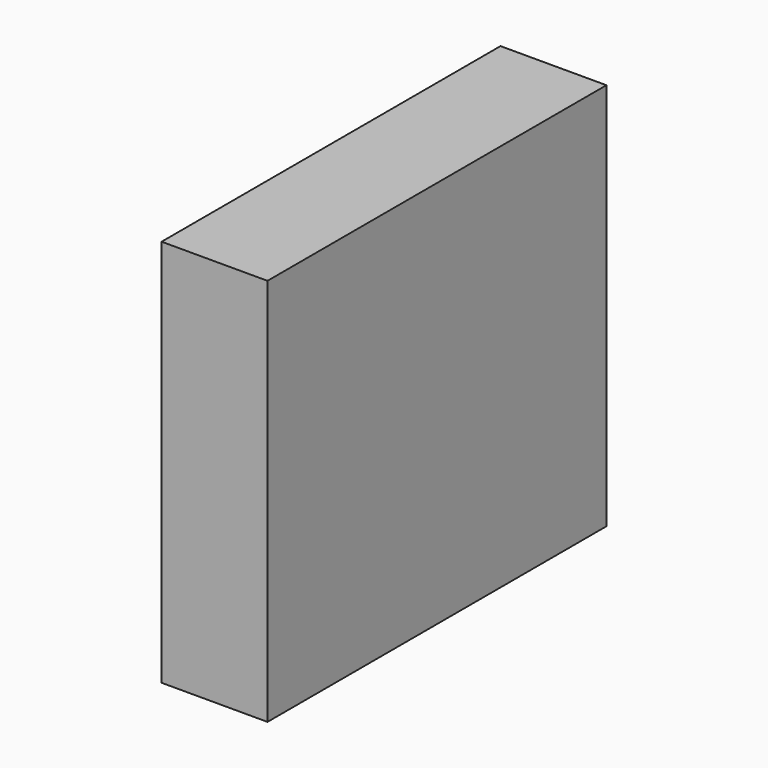
from build123d import *

# Parameters (mm, degrees)
BOX3569_W        = 1750
BOX3569_H        = 550
BOX3569_DEPTH    = 2150
BOX3519_W        = 500
BOX3519_H        = 550
BOX3519_DEPTH    = 500
ARRAY278_Z_COUNT = 4
ARRAY278_Z_PITCH = 550
BOX3116_W        = 2400
BOX3116_H        = 600
BOX3116_DEPTH    = 2200


with BuildPart() as box3569:
    # Box3569 → Box3569 (new body)
    with BuildSketch(Plane(origin=(1600, 800, 0), x_dir=(0, -1, 0), z_dir=(0, 0, 1))):
        with Locations((875, 275)):
            Rectangle(BOX3569_W, BOX3569_H)
    extrude(amount=BOX3569_DEPTH)


with BuildPart() as array278:
    # Box3519 → Box3519 (new body)
    with BuildSketch(Plane(origin=(1600, 1350, 0), x_dir=(0, -1, 0), z_dir=(0, 0, 1))):
        with Locations((250, 275)):
            Rectangle(BOX3519_W, BOX3519_H)
    extrude(amount=BOX3519_DEPTH)

    # Array278 Z: Array278 ×4


with BuildPart() as array278_1:
    add(array278.part)
    with Locations(*[(0, 0, i * ARRAY278_Z_PITCH) for i in range(1, ARRAY278_Z_COUNT)]):
        add(array278.part)


with BuildPart() as cut005:
    # Box3116 → Box3116 (new body)
    with BuildSketch(Plane(origin=(1600, 1400, 0), x_dir=(0, -1, 0), z_dir=(0, 0, 1))):
        with Locations((1200, 300)):
            Rectangle(BOX3116_W, BOX3116_H)
    extrude(amount=BOX3116_DEPTH)

    # Cut: cut Array278
    add(array278_1.part, mode=Mode.SUBTRACT)

    # Cut005: cut Box3569
    add(box3569.part, mode=Mode.SUBTRACT)


with BuildPart() as cut005_1:
    # Cut005 placement: moved
    add(cut005.part.moved(Location((-100, 0, 0))))


solid = cut005_1.part
